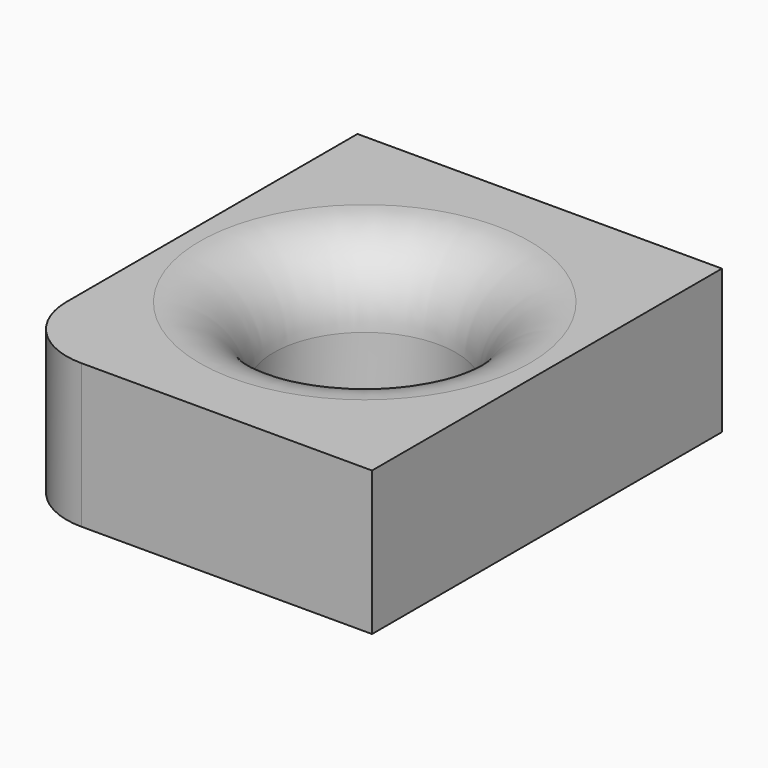
from build123d import *

# Parameters (mm, degrees)
F0_W     = 254
F0_H     = 304.8
F0_R     = 63.5
F1_DEPTH = 100.33
F2_R     = 51.509661


with BuildPart() as f1:
    # F0 (on Top) → F1 (new body)
    with BuildSketch(Plane.XY):
        Rectangle(F0_W, F0_H)
        Circle(F0_R, mode=Mode.SUBTRACT)
    extrude(amount=F1_DEPTH)

    # F2
    f2_edges = [f1.edges().sort_by_distance(p)[0] for p in [
        (-127, -152.4, 50.165),
        (-63.5, 0, 100.33),
    ]]
    fillet(f2_edges, radius=F2_R)


solid = f1.part
